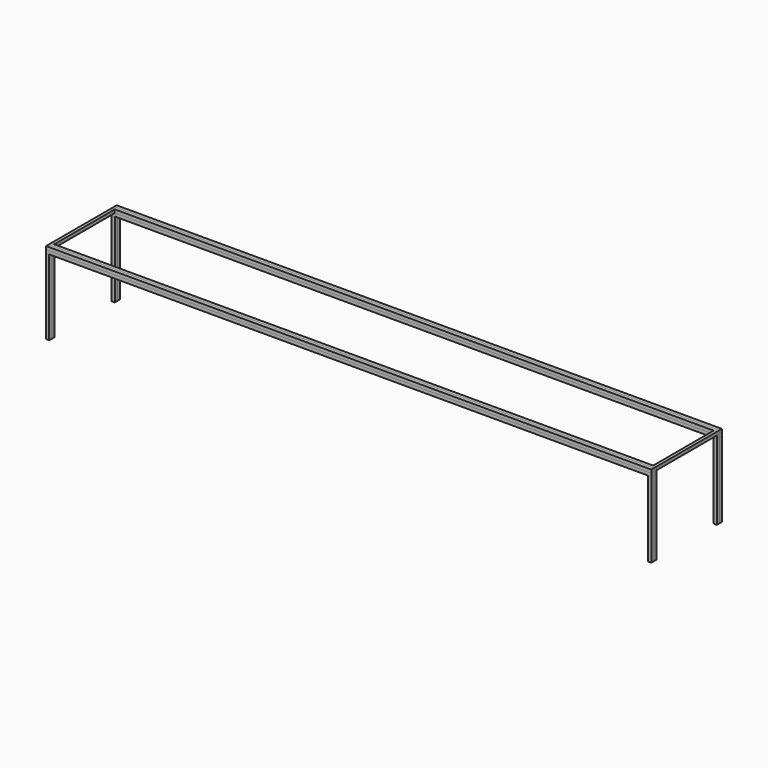
from build123d import *

# Parameters (mm, degrees)
F0_W      = 609.6
F0_H      = 3.175
F1_DEPTH  = 3.175
F11_W     = 3.175
F11_H     = 76.2
F12_DEPTH = 3.175
F18_W     = 76.0745087173
F18_H     = 3.2745599747
F19_DEPTH = 3.175


with BuildPart() as f1:
    # F0 (on Front) → F1 (new body)
    with BuildSketch(Plane.XZ):
        with Locations((8.5069350898, -77.2741947095)):
            Rectangle(F0_W, F0_H)
    extrude(amount=F1_DEPTH)


with BuildPart() as f2_1:
    # F2: copy of F1
    add(f1.part.moved(Location((0, 3.175, 0))))


with BuildPart() as f3_1:
    # F3: copy of F1
    add(f1.part.moved(Location((0, 3.175, 0))))


with BuildPart() as f4_1:
    # F4: copy of F1
    add(f1.part.moved(Location((0, 3.175, 0))))


with BuildPart() as f5_1:
    # F5: copy of F1
    add(f1.part.moved(Location((0, 0, 3.175))))


with BuildPart() as f6_1:
    # F6: copy of F1
    add(f1.part.moved(Location((0, 0, 3.175))))


with BuildPart() as f7_1:
    # F7: copy of F1
    add(f1.part.moved(Location((0, 0, 3.175))))


with BuildPart() as f10_1:
    # F10: copy of F4_1
    add(f4_1.part.moved(Location((0, 0, 3.175))))


with BuildPart() as f12:
    # F11 (on Front) → F12 (new body)
    with BuildSketch(Plane.XZ):
        with Locations((-294.7055649102, -116.9616947095)):
            Rectangle(F11_W, F11_H)
    extrude(amount=F12_DEPTH)


with BuildPart() as f13_1:
    # F13: copy of F12
    add(f12.part.moved(Location((0, 3.175, 0))))


with BuildPart() as f14_1:
    # F14: copy of F12
    add(f12.part.moved(Location((606.425, 0, 0))))


with BuildPart() as f15_1:
    # F15: copy of F13_1
    add(f13_1.part.moved(Location((606.425, 0, 0))))


with BuildPart() as f16_1:
    # F16: copy of F1
    add(f1.part.moved(Location((0, 82.55, 0))))


with BuildPart() as f16_2:
    # F16: copy of F2_1
    add(f2_1.part.moved(Location((0, 82.55, 0))))


with BuildPart() as f16_3:
    # F16: copy of F3_1
    add(f3_1.part.moved(Location((0, 82.55, 0))))


with BuildPart() as f16_4:
    # F16: copy of F4_1
    add(f4_1.part.moved(Location((0, 82.55, 0))))


with BuildPart() as f16_5:
    # F16: copy of F5_1
    add(f5_1.part.moved(Location((0, 82.55, 0))))


with BuildPart() as f16_6:
    # F16: copy of F10_1
    add(f10_1.part.moved(Location((0, 82.55, 0))))


with BuildPart() as f16_7:
    # F16: copy of F12
    add(f12.part.moved(Location((0, 82.55, 0))))


with BuildPart() as f16_8:
    # F16: copy of F13_1
    add(f13_1.part.moved(Location((0, 82.55, 0))))


with BuildPart() as f16_9:
    # F16: copy of F14_1
    add(f14_1.part.moved(Location((0, 82.55, 0))))


with BuildPart() as f16_10:
    # F16: copy of F15_1
    add(f15_1.part.moved(Location((0, 82.55, 0))))


with BuildPart() as f19:
    # F18 (on offset) → F19 (new body)
    with BuildSketch(Plane.YZ.offset(313.3069350898)):
        with Locations((41.2313054549, -74.1278156638)):
            Rectangle(F18_W, F18_H)
    extrude(amount=-F19_DEPTH)


with BuildPart() as f20_1:
    # F20: copy of F19
    add(f19.part.moved(Location((-606.425, 0, 0))))


solid = Compound([f1.part, f2_1.part, f3_1.part, f4_1.part, f5_1.part, f10_1.part, f12.part, f13_1.part, f14_1.part, f15_1.part, f16_1.part, f16_2.part, f16_3.part, f16_4.part, f16_5.part, f16_6.part, f16_7.part, f16_8.part, f16_9.part, f16_10.part, f19.part, f20_1.part])
